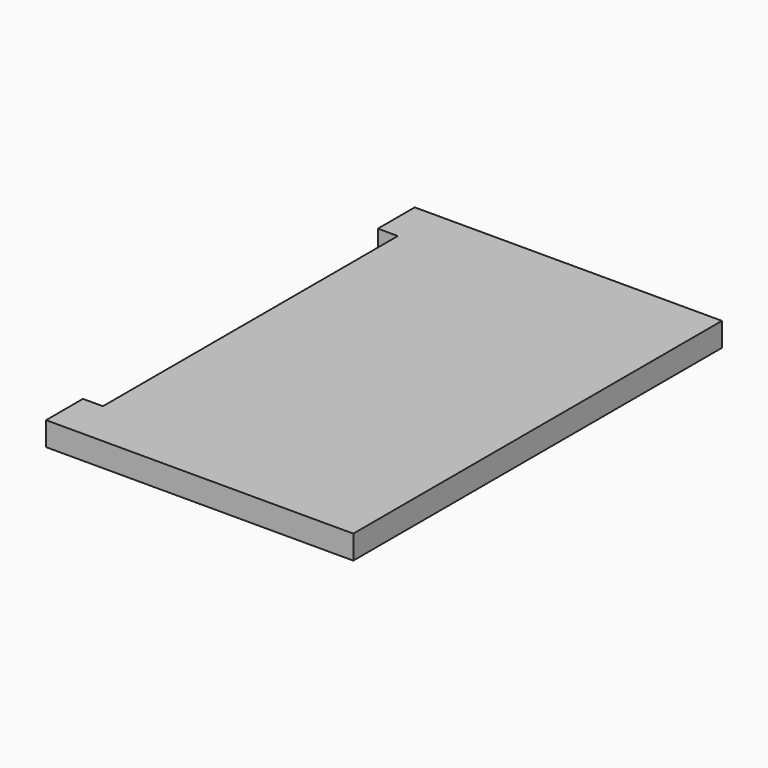
from build123d import *

# Parameters (mm, degrees)
F0_W     = 200
F0_H     = 15.5
F1_DEPTH = 300
F2_W     = 13
F2_H     = 120
F3_DEPTH = 15.501
F5_W     = 10
F5_H     = 7
F6_DEPTH = 28.5


with BuildPart() as f1:
    # F0 (on Front) → F1 (new body)
    with BuildSketch(Plane.XZ):
        with Locations((100, 7.75)):
            Rectangle(F0_W, F0_H)
    extrude(amount=-F1_DEPTH)

    # F2 (on face) → F3 (cut, through all)
    with BuildSketch(Plane.XY.offset(15.5)):
        with Locations((6.5, 210)):
            Rectangle(F2_W, F2_H)
        with Locations((6.5, 90)):
            Rectangle(F2_W, F2_H)
    extrude(amount=-F3_DEPTH, mode=Mode.SUBTRACT)

    # F5 (on offset) → F6 (cut, through all)
    with BuildSketch(Plane.XZ.offset(-1.5)):
        with Locations((6.5, 10.4964849353)):
            Rectangle(F5_W, F5_H)
    extrude(amount=-F6_DEPTH, mode=Mode.SUBTRACT)


solid = f1.part
